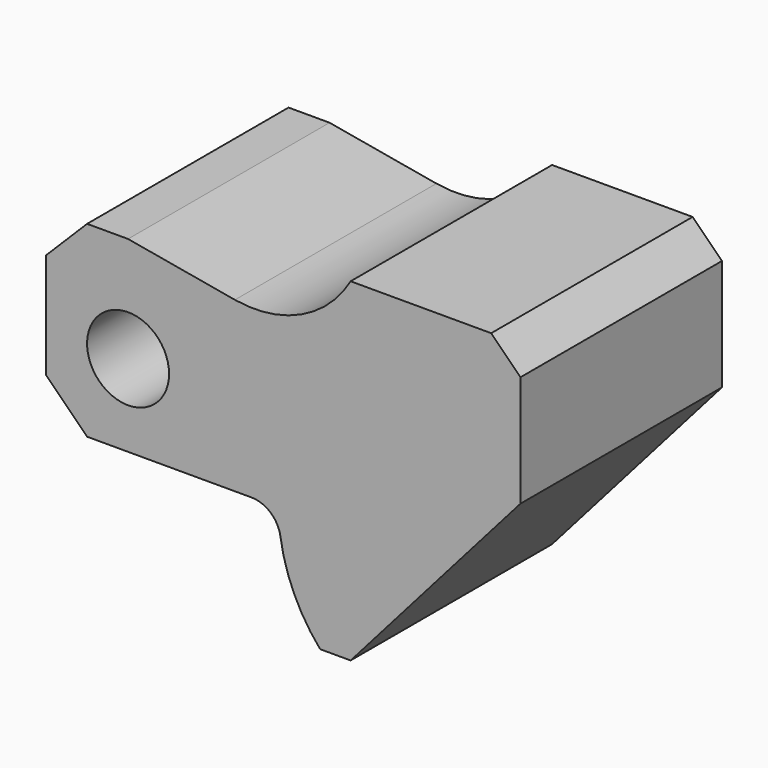
from build123d import *

# Parameters (mm, degrees)
F0_R     = 7
F1_DEPTH = 43


with BuildPart() as f1:
    # F0 (on Front) → F1 (new body)
    with BuildSketch(Plane.XZ):
        with BuildLine():
            Line((-14, -7), (-7, -14))
            Line((-7, -14), (21.066626, -14))
            ThreePointArc((21.066626, -14), (24.331862, -15.213414), (26.012265, -18.264706))
            ThreePointArc((26.012265, -18.264706), (28.349095, -26.115672), (32.788067, -33))
            Line((32.788067, -33), (38, -33))
            Line((38, -33), (67, 0))
            Line((67, 0), (67, 19))
            Line((67, 19), (62, 24))
            Line((62, 24), (38, 24))
            ThreePointArc((38, 24), (29.574973, 16.276069), (18.243085, 14.783252))
            Line((18.243085, 14.783252), (0, 18))
            Line((0, 18), (-7, 18))
            Line((-7, 18), (-14, 11))
            Line((-14, 11), (-14, -7))
        make_face()
        Circle(F0_R, mode=Mode.SUBTRACT)
    extrude(amount=F1_DEPTH)


solid = f1.part
